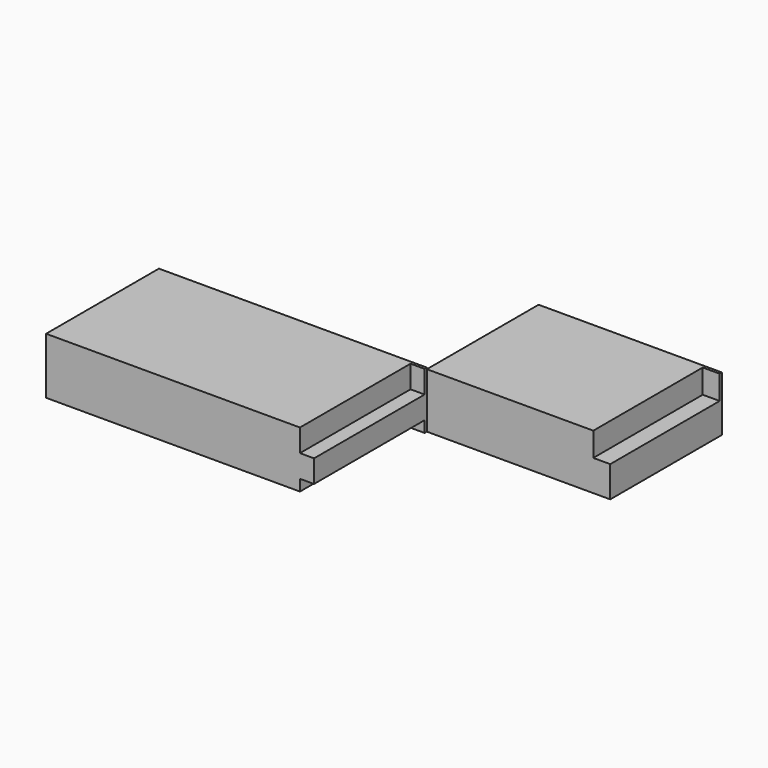
from build123d import *

# Parameters (mm, degrees)
F0_W     = 12
F0_H     = 97
F0_H_2   = 2
F1_DEPTH = 22
F0_W_2   = 118
F2_DEPTH = 39
F0_W_3   = 180
F0_H_3   = 98
F0_W_4   = 10
F3_DEPTH = 40
F4_DEPTH = 24
F5_W     = 98
F5_H     = 8
F6_DEPTH = 10


with BuildPart() as f1:
    # F0 (on Top) → F1 (new body)
    with BuildSketch(Plane.XY):
        with Locations((124, 48.5)):
            Rectangle(F0_W, F0_H)
        with Locations((124, 98)):
            Rectangle(F0_W, F0_H_2)
    extrude(amount=F1_DEPTH)

    # F0 (on Top) → F2 (join)
    with BuildSketch(Plane.XY):
        with Locations((59, 48.5)):
            Rectangle(F0_W_2, F0_H)
        with Locations((59, 98)):
            Rectangle(F0_W_2, F0_H_2)
        with Locations((124, 98)):
            Rectangle(F0_W, F0_H_2)
    extrude(amount=F2_DEPTH)



with BuildPart() as f3:
    # F0 (on Top) → F3 (new body)
    with BuildSketch(Plane.XY):
        with Locations((-100, -1)):
            Rectangle(F0_W_3, F0_H_2)
        with Locations((-100, -51)):
            Rectangle(F0_W_3, F0_H_3)
        with Locations((-5, -1)):
            Rectangle(F0_W_4, F0_H_2)
    extrude(amount=F3_DEPTH)


with BuildPart() as f1_1:
    add(f1.part)

    add(f3.part)  # F4 merges F3
    # F0 (on Top) → F4 (join)
    with BuildSketch(Plane.XY):
        with Locations((-5, -1)):
            Rectangle(F0_W_4, F0_H_2)
        with Locations((-5, -51)):
            Rectangle(F0_W_4, F0_H_3)
    extrude(amount=F4_DEPTH)

    # F5 (on face) → F6 (cut)
    with BuildSketch(Plane.YZ):
        with Locations((-51, 4)):
            Rectangle(F5_W, F5_H)
    extrude(amount=-F6_DEPTH, mode=Mode.SUBTRACT)


solid = f1_1.part
